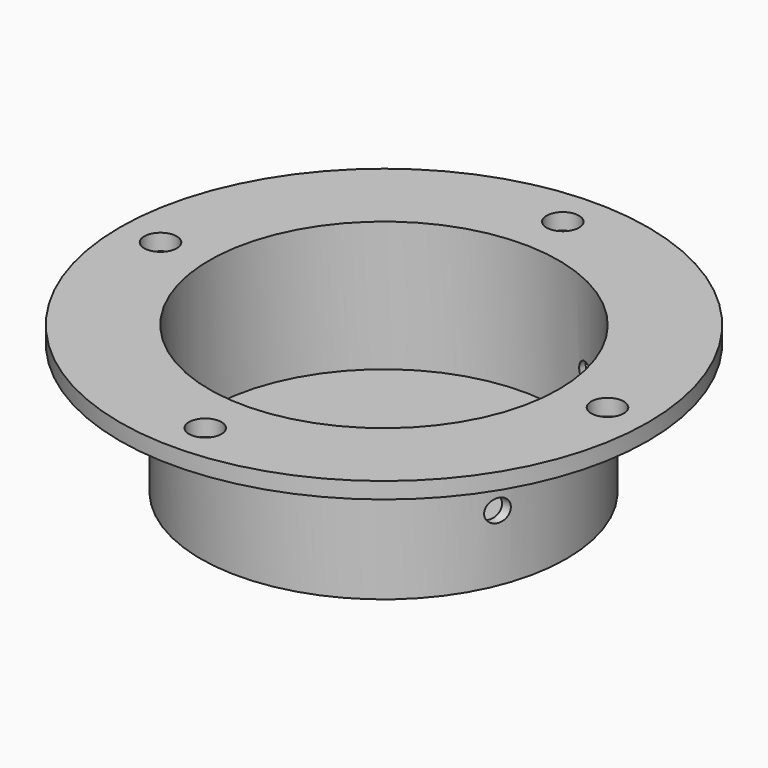
from build123d import *

# Parameters (mm, degrees)
F0_R      = 28.575
F1_DEPTH  = 20.32
F2_R      = 27.305
F3_DEPTH  = 17.78
F4_R      = 1.733709
F5_DEPTH  = 28.576
F6_R      = 1.562885
F7_DEPTH  = 28.481089
F8_R      = 41.275
F9_DEPTH  = 2.54
F10_R     = 27.305
F11_DEPTH = 2.54
F12_R     = 2.54
F13_DEPTH = 22.861
F14_R     = 2.54
F15_DEPTH = 22.861
F16_R     = 2.54
F17_DEPTH = 22.861
F18_R     = 2.54
F19_DEPTH = 22.861


with BuildPart() as f1:
    # F0 (on Top) → F1 (new body)
    with BuildSketch(Plane.XY):
        with Locations((0, -0.094911)):
            Circle(F0_R)
    extrude(amount=F1_DEPTH)

    # F2 (on face) → F3 (cut)
    with BuildSketch(Plane.XY.offset(20.32)):
        Circle(F2_R)
    extrude(amount=-F3_DEPTH, mode=Mode.SUBTRACT)

    # F4 (on Right) → F5 (cut, through all)
    with BuildSketch(Plane.YZ):
        with Locations((-10.845167, 10.345303)):
            Circle(F4_R)
    extrude(amount=F5_DEPTH, mode=Mode.SUBTRACT)

    # F6 (on Front) → F7 (cut, through all)
    with BuildSketch(Plane.XZ):
        with Locations((11.812109, 10.026056)):
            Circle(F6_R)
    extrude(amount=-F7_DEPTH, mode=Mode.SUBTRACT)

    # F8 (on face) → F9 (join)
    with BuildSketch(Plane.XY.offset(20.32)):
        Circle(F8_R)
    extrude(amount=F9_DEPTH)

    # F10 (on face) → F11 (cut)
    with BuildSketch(Plane.XY.offset(22.86)):
        Circle(F10_R)
    extrude(amount=-F11_DEPTH, mode=Mode.SUBTRACT)

    # F12 (on Top) → F13 (cut, through all)
    with BuildSketch(Plane.XY):
        with Locations((0, 34.925)):
            Circle(F12_R)
    extrude(amount=F13_DEPTH, mode=Mode.SUBTRACT)

    # F14 (on face) → F15 (cut, through all)
    with BuildSketch(Plane.XY.offset(22.86)):
        with Locations((-34.925, 0)):
            Circle(F14_R)
    extrude(amount=-F15_DEPTH, mode=Mode.SUBTRACT)

    # F16 (on face) → F17 (cut, through all)
    with BuildSketch(Plane.XY.offset(22.86)):
        with Locations((0, -34.925)):
            Circle(F16_R)
    extrude(amount=-F17_DEPTH, mode=Mode.SUBTRACT)

    # F18 (on face) → F19 (cut, through all)
    with BuildSketch(Plane.XY.offset(22.86)):
        with Locations((34.925, 0)):
            Circle(F18_R)
    extrude(amount=-F19_DEPTH, mode=Mode.SUBTRACT)


solid = f1.part
